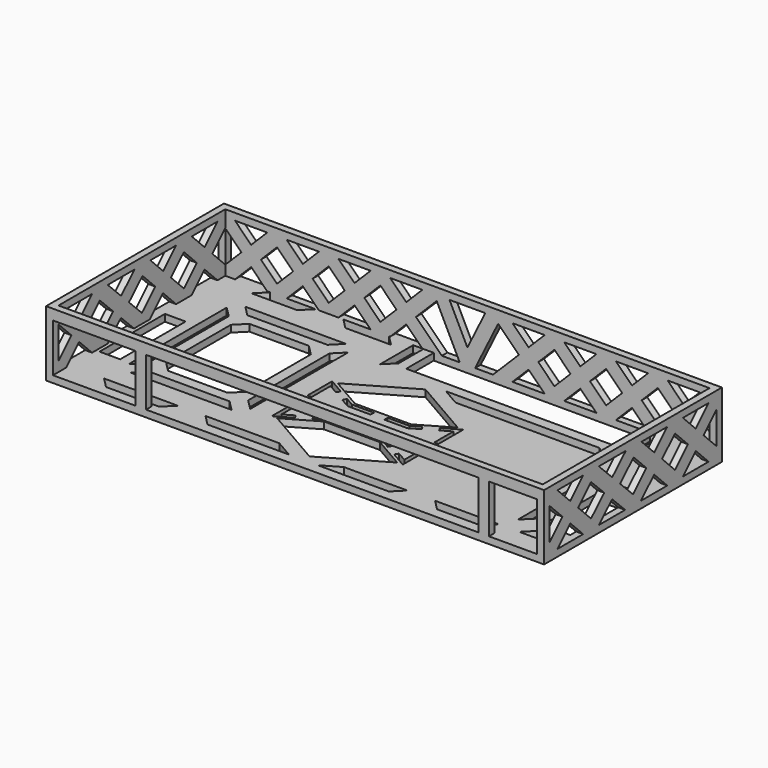
from build123d import *

# Parameters (mm, degrees)
F0_W      = 144.5
F0_H      = 64.5
F1_DEPTH  = 2
F2_W      = 144.5
F2_H      = 64.5
F2_W_2    = 140.5
F2_H_2    = 60.5
F3_DEPTH  = 17
F4_W      = 24
F4_H      = 15
F4_W_2    = 14
F4_W_3    = 98.5
F5_DEPTH  = 25
F6_W      = 60
F6_H      = 10
F6_W_2    = 8
F6_H_2    = 20
F7_DEPTH  = 25
F9_DEPTH  = 144.501
F11_DEPTH = 25
F13_DEPTH = 1
F15_SCALE = 2
F17_DEPTH = 3
F19_DEPTH = 2
F18_W     = 1.1999995362
F18_H     = 4.0000001362
F18_W_2   = 1.199999375
F18_H_2   = 4.0000000878
F18_W_3   = 4.0000000008
F18_H_3   = 1.1999990848
F22_DEPTH = 25
F23_W     = 6
F23_H     = 23.7315909414
F24_DEPTH = 25
F26_DEPTH = 2
F27_W     = 2
F27_H     = 15
F28_DEPTH = 1
F29_W     = 2
F29_H     = 15
F30_DEPTH = 1
F31_W     = 24
F31_H     = 2
F31_W_2   = 96.5
F31_W_3   = 14
F32_DEPTH = 1
F34_DEPTH = 2


with BuildPart() as f1:
    # F0 (on Top) → F1 (new body)
    with BuildSketch(Plane.XY):
        Rectangle(F0_W, F0_H)
    extrude(amount=F1_DEPTH)

    # F2 (on face) → F3 (join)
    with BuildSketch(Plane.XY.offset(2)):
        Rectangle(F2_W, F2_H)
        Rectangle(F2_W_2, F2_H_2, mode=Mode.SUBTRACT)
    extrude(amount=F3_DEPTH)

    # F4 (on face) → F5 (cut)
    with BuildSketch(Plane.XZ.offset(32.25)):
        with Locations((-58.25, 9.5)):
            Rectangle(F4_W, F4_H)
        with Locations((63.25, 9.5)):
            Rectangle(F4_W_2, F4_H)
        with Locations((5, 9.5)):
            Rectangle(F4_W_3, F4_H)
    extrude(amount=-F5_DEPTH, mode=Mode.SUBTRACT)

    # F6 (on face) → F7 (cut)
    with BuildSketch(Plane(origin=(0, 0, 0), x_dir=(1, 0, 0), z_dir=(0, 0, -1))):
        with Locations((20.25, -25.25)):
            Rectangle(F6_W, F6_H)
        with Locations((66.25, 10.25)):
            Rectangle(F6_W_2, F6_H_2)
    extrude(amount=-F7_DEPTH, mode=Mode.SUBTRACT)

    # F8 (on face) → F9 (cut, through all)
    with BuildSketch(Plane(origin=(-72.25, 0, 0), x_dir=(0, -1, 0), z_dir=(-1, 0, 0))):
        Polygon((-22.75, 6.6715728753), (-27.4215728753, 2), (-18.0784271247, 2), align=None)
        Polygon((-25.5784271247, 9.5), (-30.25, 14.1715728753), (-30.25, 4.8284271247), align=None)
        Polygon((25.5784271247, 9.5), (30.25, 4.8284271247), (30.25, 14.1715728753), align=None)
        Polygon((27.4215728753, 2), (22.75, 6.6715728753), (18.0784271247, 2), align=None)
        Polygon((-18.0784271247, 17), (-27.4215728753, 17), (-22.75, 12.3284271247), align=None)
        Polygon((-3.0784271247, 17), (-12.3979052532, 17), (-7.6996559488, 12.3787711759), align=None)
        Polygon((12.3979052532, 17), (2.625953948, 17), (7.5516529799, 12.2331944853), align=None)
        Polygon((27.4215728753, 17), (18.0784271247, 17), (22.75, 12.3284271247), align=None)
        Polygon((4.6990807713, 9.4273857555), (-0.2270061897, 14.1945666855), (-4.8478533933, 9.573719482), (0, 4.8053390952), align=None)
        Polygon((19.9215728753, 9.5), (15.2383605801, 14.1832122951), (10.4269354888, 9.450663025), (15.2270061897, 4.8054333145), align=None)
        Polygon((7.5743632802, 6.6448542952), (2.8520947468, 2), (12.374046052, 2), align=None)
        Polygon((-10.5281796646, 9.5502474602), (-15.2383605801, 14.1832122951), (-19.9215728753, 9.5), (-15.25, 4.8284271247), align=None)
        Polygon((-2.8520947468, 2), (-7.6763771091, 6.7451957662), (-12.4215728753, 2), align=None)
    extrude(amount=-F9_DEPTH, mode=Mode.SUBTRACT)

    # F10 (on face) → F11 (cut)
    with BuildSketch(Plane(origin=(0, 32.25, 0), x_dir=(-1, 0, 0), z_dir=(0, 1, 0))):
        Polygon((-62.75, 6.6715728753), (-67.4215728753, 2), (-58.0784271247, 2), align=None)
        Polygon((-65.5784271247, 9.5), (-70.25, 14.1715728753), (-70.25, 4.8284271247), align=None)
        Polygon((62.75, 12.3284271247), (67.4215728753, 17), (58.0784271247, 17), align=None)
        Polygon((65.5784271247, 9.5), (70.25, 4.8284271247), (70.25, 14.1715728753), align=None)
        Polygon((-17.75, 6.6715728753), (-22.4215728753, 2), (-13.0784271247, 2), align=None)
        Polygon((-35.5784271247, 9.5), (-40.25, 14.1715728753), (-44.9215728753, 9.5), (-40.25, 4.8284271247), align=None)
        Polygon((-47.75, 6.6715728753), (-52.4215728753, 2), (-43.0784271247, 2), align=None)
        Polygon((-29.9215728753, 9.5), (-25.25, 4.8284271247), (-20.5784271247, 9.5), (-25.25, 14.1715728753), align=None)
        Polygon((-28.0784271247, 2), (-32.75, 6.6715728753), (-37.4215728753, 2), align=None)
        Polygon((-28.0784271247, 17), (-37.4215728753, 17), (-32.75, 12.3284271247), align=None)
        Polygon((-59.9215728753, 9.5), (-55.25, 4.8284271247), (-50.5784271247, 9.5), (-55.25, 14.1715728753), align=None)
        Polygon((-58.0784271247, 17), (-67.4215728753, 17), (-62.75, 12.3284271247), align=None)
        Polygon((-13.0784271247, 17), (-22.4215728753, 17), (-17.75, 12.3284271247), align=None)
        Polygon((-43.0784271247, 17), (-52.4215728753, 17), (-47.75, 12.3284271247), align=None)
        Polygon((20.5784271247, 9.5), (25.25, 4.8284271247), (29.9215728753, 9.5), (25.25, 14.1715728753), align=None)
        Polygon((32.75, 12.3284271247), (37.4215728753, 17), (28.0784271247, 17), align=None)
        Polygon((50.5784271247, 9.5), (55.25, 4.8284271247), (59.9215728753, 9.5), (55.25, 14.1715728753), align=None)
        Polygon((13.0784271247, 2), (22.4215728753, 2), (17.75, 6.6715728753), align=None)
        Polygon((44.9215728753, 9.5), (40.25, 14.1715728753), (35.5784271247, 9.5), (40.25, 4.8284271247), align=None)
        Polygon((43.0784271247, 2), (52.4215728753, 2), (47.75, 6.6715728753), align=None)
        Polygon((17.75, 12.3284271247), (22.4215728753, 17), (13.0784271247, 17), align=None)
        Polygon((47.75, 12.3284271247), (52.4215728753, 17), (43.0784271247, 17), align=None)
        Polygon((28.0784271247, 2), (37.4215728753, 2), (32.75, 6.6715728753), align=None)
        Polygon((58.0784271247, 2), (67.4215728753, 2), (62.75, 6.6715728753), align=None)
        Polygon((-8.9143836839, 15.5071891914), (-14.9215728753, 9.5), (-7.4215728753, 2), (-2.2314110889, 2), align=None)
        Polygon((7.4215728753, 2), (14.9215728753, 9.5), (8.9143836839, 15.5071891914), (2.2314110889, 2), align=None)
        Polygon((0, 6.5099828428), (5.1901617863, 17), (-5.1901617863, 17), align=None)
    extrude(amount=-F11_DEPTH, mode=Mode.SUBTRACT)


with BuildPart() as f13:
    # F12 (on face) → F13 (new body)
    with BuildSketch(Plane(origin=(0, 0, 0), x_dir=(1, 0, 0), z_dir=(0, 0, -1))):
        Polygon((9.5098589116, 0.5094823004), (9.5098576654, 11.4905178358), (4.179731129, 8.4131683653), (-4.1797301546, 8.4131675528), (-9.5098549353, 11.4905170499), (-9.509855739, 0.509483038), (-4.1797296744, 3.586832236), (4.1797287664, 3.5868322413), align=None)
        Polygon((-4.3404990436, 4.186831777), (-8.9098561218, 1.5487126838), (-8.9098554702, 10.4512873162), (-4.3404995436, 7.813167996), (4.340500525, 7.8131688398), (8.9098582422, 10.451288302), (8.9098592526, 1.548711698), (4.3404980622, 4.1868317825), align=None, mode=Mode.SUBTRACT)
    extrude(amount=F13_DEPTH)


with BuildPart() as f13b:
    # F12 (on face) → F13, piece 2 (new body)
    with BuildSketch(Plane(origin=(0, 0, 0), x_dir=(1, 0, 0), z_dir=(0, 0, -1))):
        Polygon((-4.0725504592, 8.813167641), (4.0725514288, 8.8131684327), (8.7098577157, 11.4905180133), (1.5605e-06, 16.5191537659), (-8.7098537988, 11.490516425), align=None)
    extrude(amount=F13_DEPTH)


with BuildPart() as f13c:
    # F12 (on face) → F13, piece 3 (new body)
    with BuildSketch(Plane(origin=(0, 0, 0), x_dir=(1, 0, 0), z_dir=(0, 0, -1))):
        Polygon((-8.7098571299, 0.509482449), (-8.736e-07, -4.5191554006), (8.7098591635, 0.5094821875), (4.0725492171, 3.1868324774), (-4.0725500763, 3.1868324722), align=None)
    extrude(amount=F13_DEPTH)


with BuildPart() as f13_1:
    # F15: moved
    add(f13.part.scale(F15_SCALE).moved(Location((-1.4757e-06, 6, 1))))


with BuildPart() as f13b_1:
    # F15: moved
    add(f13b.part.scale(F15_SCALE).moved(Location((-1.4757e-06, 6, 1))))


with BuildPart() as f13c_1:
    # F15: moved
    add(f13c.part.scale(F15_SCALE).moved(Location((-1.4757e-06, 6, 1))))


with BuildPart() as f17_tool:
    # F16 (on face) → F17 (new body)
    with BuildSketch(Plane(origin=(0, 0, -1), x_dir=(1, 0, 0), z_dir=(0, 0, -1))):
        Polygon((8.3594607822, 10.8263367307), (-8.3594617849, 10.8263351056), (-19.0197113463, 16.9810340997), (-19.0197129537, -4.9810339241), (-8.3594608245, 1.173664472), (8.359456057, 1.1736644826), (19.0197163476, -4.9810353992), (19.019713855, 16.9810356716), align=None)
        Polygon((8.6809946486, 2.373663565), (-8.6809995628, 2.3736635541), (-17.8197137193, -2.9025746324), (-17.8197124161, 14.9025746324), (-8.6810005629, 9.6263359921), (8.6809995743, 9.6263376797), (17.8197150087, 14.9025766039), (17.8197170295, -2.9025766039), align=None, mode=Mode.SUBTRACT)
        Polygon((1.6454e-06, 27.0383075318), (-17.4197090734, 16.9810328501), (-8.145102394, 11.626335282), (8.1451013819, 11.6263368654), (17.4197139558, 16.9810360265), align=None)
        Polygon((8.1450969586, 0.3736649547), (-8.1451016282, 0.3736649444), (-17.4197157354, -4.9810351019), (-3.2229e-06, -15.0383108012), (17.4197168513, -4.9810356249), align=None)
    extrude(amount=-F17_DEPTH)


with BuildPart() as f1_1:
    add(f1.part)

    # F17: cut by f17_tool
    add(f17_tool.part, mode=Mode.SUBTRACT)


with BuildPart() as f13_2:
    add(f13_1.part)

    # F17: cut by f17_tool
    add(f17_tool.part, mode=Mode.SUBTRACT)


with BuildPart() as f13b_2:
    add(f13b_1.part)

    # F17: cut by f17_tool
    add(f17_tool.part, mode=Mode.SUBTRACT)


with BuildPart() as f13c_2:
    add(f13c_1.part)

    # F17: cut by f17_tool
    add(f17_tool.part, mode=Mode.SUBTRACT)


with BuildPart() as f19:
    # F18 (on face) → F19 (new body)
    with BuildSketch(Plane(origin=(0, 0, 0), x_dir=(1, 0, 0), z_dir=(0, 0, -1))):
        Polygon((1.9999993891, 10.8263361125), (-2.0000006109, 10.8263357237), (-2.0000004943, 9.6263366415), (1.9999995057, 9.6263370303), align=None)
    extrude(amount=-F19_DEPTH)


with BuildPart() as f19b:
    # F18 (on face) → F19, piece 2 (new body)
    with BuildSketch(Plane(origin=(0, 0, 0), x_dir=(1, 0, 0), z_dir=(0, 0, -1))):
        Polygon((14.9824081723, 13.264457015), (14.3824087072, 14.3036867487), (10.9183069457, 12.3036870022), (11.5183064107, 11.2644572686), align=None)
    extrude(amount=-F19_DEPTH)


with BuildPart() as f19c:
    # F18 (on face) → F19, piece 3 (new body)
    with BuildSketch(Plane(origin=(0, 0, 0), x_dir=(1, 0, 0), z_dir=(0, 0, -1))):
        Polygon((-11.5183057551, 11.2644551855), (-10.9183061379, 12.3036848313), (-14.3824076067, 14.3036850849), (-14.9824072239, 13.264455439), align=None)
    extrude(amount=-F19_DEPTH)


with BuildPart() as f19d:
    # F18 (on face) → F19, piece 4 (new body)
    with BuildSketch(Plane(origin=(0, 0, 0), x_dir=(1, 0, 0), z_dir=(0, 0, -1))):
        with Locations((18.4197155602, 6.0000000681)):
            Rectangle(F18_W, F18_H)
    extrude(amount=-F19_DEPTH)


with BuildPart() as f19e:
    # F18 (on face) → F19, piece 5 (new body)
    with BuildSketch(Plane(origin=(0, 0, 0), x_dir=(1, 0, 0), z_dir=(0, 0, -1))):
        with Locations((-18.4197126088, 6.0000000439)):
            Rectangle(F18_W_2, F18_H_2)
    extrude(amount=-F19_DEPTH)


with BuildPart() as f19f:
    # F18 (on face) → F19, piece 6 (new body)
    with BuildSketch(Plane(origin=(0, 0, 0), x_dir=(1, 0, 0), z_dir=(0, 0, -1))):
        Polygon((-14.9824075218, -1.2644554124), (-14.3824080567, -2.3036851461), (-10.9183062952, -0.3036853996), (-11.5183057603, 0.7355443341), align=None)
    extrude(amount=-F19_DEPTH)


with BuildPart() as f19g:
    # F18 (on face) → F19, piece 7 (new body)
    with BuildSketch(Plane(origin=(0, 0, 0), x_dir=(1, 0, 0), z_dir=(0, 0, -1))):
        with Locations((-2.4567e-06, 1.7736640184)):
            Rectangle(F18_W_3, F18_H_3)
    extrude(amount=-F19_DEPTH)


with BuildPart() as f19h:
    # F18 (on face) → F19, piece 8 (new body)
    with BuildSketch(Plane(origin=(0, 0, 0), x_dir=(1, 0, 0), z_dir=(0, 0, -1))):
        Polygon((10.9183055021, -0.3036869092), (14.3824077176, -2.3036858694), (14.9824069468, -1.2644559995), (11.5183047313, 0.7355429606), align=None)
    extrude(amount=-F19_DEPTH)


with BuildPart() as f1_2:
    add(f1_1.part)

    # F20: union F19, F19b, F19c, F19d, F19e, F19f, F19g, F19h
    add(f19.part)
    add(f19b.part)
    add(f19c.part)
    add(f19d.part)
    add(f19e.part)
    add(f19f.part)
    add(f19g.part)
    add(f19h.part)

    # F21 (on face) → F22 (cut)
    with BuildSketch(Plane(origin=(0, 0, 0), x_dir=(1, 0, 0), z_dir=(0, 0, -1))):
        Polygon((63.2426406871, 23.25), (70, 23.25), (70, 26.25), (60.2426406871, 26.25), align=None)
        Polygon((56.25, -1.7573593129), (59.25, 1.2426406871), (59.25, 18.7573593129), (56.25, 21.7573593129), align=None)
        Polygon((70, -5.75), (70, -2.75), (63.2426406871, -2.75), (60.2426406871, -5.75), align=None)
        Polygon((53.25, -21.2426406871), (53.25, -30), (56.25, -30), (56.25, -18.2426406871), align=None)
        Polygon((-11.7573593129, -14.25), (-8.7573593129, -17.25), (-4.1692451619, -17.25), (-9.3653975893, -14.25), align=None)
        Polygon((-15.75, -30.25), (-12.75, -30.25), (-12.75, -21.2426406871), (-15.75, -18.2426406871), align=None)
        Polygon((51.7573593129, -14.25), (9.3653947238, -14.25), (4.1692397706, -17.25), (48.7573593129, -17.25), align=None)
        Polygon((-69.25, -7.1065909414), (-69.25, -27.25), (-66.25, -30.25), (-66.25, -4), align=None)
        Polygon((-69.25, 7), (-66.25, 4), (-66.25, 29.25), (-69.25, 26.25), align=None)
        Polygon((-60.25, -27.25), (-57.25, -30.25), (-44, -30.25), (-47, -27.25), align=None)
        Polygon((-22.75, -30.25), (-19.75, -27.25), (-33, -27.25), (-36, -30.25), align=None)
        Polygon((-41.8076935225, 29.25), (-57.25, 29.25), (-60.25, 26.25), (-38.8076935225, 26.25), align=None)
        Polygon((-30.8076935225, 26.25), (-9.365387045, 26.25), (-4.169234627, 29.25), (-27.8076935225, 29.25), align=None)
        Polygon((4.1692388011, 29.25), (9.3653933351, 26.25), (27.8040170111, 26.25), (24.8040170111, 29.25), align=None)
        Polygon((35.8040170111, 26.25), (54.2426406871, 26.25), (51.2426406871, 29.25), (38.8040170111, 29.25), align=None)
        Polygon((-28.0197113463, 20.25), (-57.25, 20.25), (-54.25, 17.25), (-31.0197113463, 17.25), align=None)
        Polygon((-57.25, 14.25), (-60.25, 17.25), (-60.25, -18.25), (-57.25, -15.25), align=None)
        Polygon((-25.0197113463, -18.25), (-25.0197113463, 17.25), (-28.0197113463, 14.25), (-28.0197113463, -15.25), align=None)
        Polygon((-54.25, -18.25), (-57.25, -21.25), (-28.0197113463, -21.25), (-31.0197113463, -18.25), align=None)
        Polygon((-48.25, -12.25), (-51.25, -15.25), (-34.0197113463, -15.25), (-37.0197113463, -12.25), align=None)
        Polygon((-51.25, 8.25), (-54.25, 11.25), (-54.25, -12.25), (-51.25, -9.25), align=None)
        Polygon((-34.0197113463, 14.25), (-51.25, 14.25), (-48.25, 11.25), (-37.0197113463, 11.25), align=None)
        Polygon((-31.0197113463, -12.25), (-31.0197113463, 11.25), (-34.0197113463, 8.25), (-34.0197113463, -9.25), align=None)
        Polygon((-42.6348556731, -6.6348556731), (-45.25, -9.25), (-40.0197113463, -9.25), align=None)
        Polygon((-45.6348556731, 2.6348556731), (-48.25, 5.25), (-48.25, 0.0197113463), align=None)
        Polygon((-40.0197113463, 8.25), (-45.25, 8.25), (-42.6348556731, 5.6348556731), align=None)
        Polygon((-37.0197113463, 0.0197113463), (-37.0197113463, 5.25), (-39.6348556731, 2.6348556731), align=None)
        Polygon((-48.25, -6.5), (-45.5098556731, -3.7598556731), (-48.25, -1.0197113463), align=None)
        Polygon((-37.0197113463, -1.0197113463), (-39.3848556731, -3.3848556731), (-37.0197113463, -5.75), align=None)
    extrude(amount=-F22_DEPTH, mode=Mode.SUBTRACT)

    # F23 (on face) → F24 (cut)
    with BuildSketch(Plane(origin=(0, 0, 0), x_dir=(1, 0, 0), z_dir=(0, 0, -1))):
        with Locations((-66.25, 4.7592045293)):
            Rectangle(F23_W, F23_H)
    extrude(amount=-F24_DEPTH, mode=Mode.SUBTRACT)

    # F25 (on face) → F26 (join)
    with BuildSketch(Plane(origin=(0, 0, 0), x_dir=(1, 0, 0), z_dir=(0, 0, -1))):
        Polygon((-69.25, -7.1065909414), (-69.25, -27.25), (-66.25, -30.25), (-66.25, -7.1065909414), align=None)
        Polygon((-69.25, 16.625), (-66.25, 16.625), (-66.25, 29.25), (-69.25, 26.25), align=None)
        Polygon((-37.0197113463, -1.0197113463), (-39.3848556731, -3.3848556731), (-37.0197113463, -5.75), align=None)
        Polygon((-45.25, -9.25), (-40.0197113463, -9.25), (-42.6348556731, -6.6348556731), align=None)
        Polygon((-48.25, -1.0197113463), (-48.25, -6.5), (-45.5098556731, -3.7598556731), align=None)
        Polygon((-48.25, 5.25), (-48.25, 0.0197113463), (-45.6348556731, 2.6348556731), align=None)
        Polygon((-45.25, 8.25), (-42.6348556731, 5.6348556731), (-40.0197113463, 8.25), align=None)
        Polygon((-37.0197113463, 5.25), (-39.6348556731, 2.6348556731), (-37.0197113463, 0.0197113463), align=None)
        Polygon((-8.7573593129, -17.25), (-4.1692451619, -17.25), (-9.3653975893, -14.25), (-11.7573593129, -14.25), align=None)
    extrude(amount=-F26_DEPTH)

    # F27 (on face) → F28 (join)
    with BuildSketch(Plane(origin=(54.25, 0, 0), x_dir=(0, -1, 0), z_dir=(-1, 0, 0))):
        with Locations((31.25, 9.5)):
            Rectangle(F27_W, F27_H)
    extrude(amount=F28_DEPTH)

    # F29 (on face) → F30 (join)
    with BuildSketch(Plane.YZ.offset(-44.25)):
        with Locations((-31.25, 9.5)):
            Rectangle(F29_W, F29_H)
    extrude(amount=F30_DEPTH)

    # F31 (on face) → F32 (join)
    with BuildSketch(Plane(origin=(0, 0, 17), x_dir=(1, 0, 0), z_dir=(0, 0, -1))):
        with Locations((-58.25, 31.25)):
            Rectangle(F31_W, F31_H)
        with Locations((5, 31.25)):
            Rectangle(F31_W_2, F31_H)
        with Locations((63.25, 31.25)):
            Rectangle(F31_W_3, F31_H)
    extrude(amount=F32_DEPTH)

    # F33 (on face) → F34 (cut)
    with BuildSketch(Plane(origin=(0, 0, 0), x_dir=(1, 0, 0), z_dir=(0, 0, -1))):
        Polygon((-34.0197113463, 14.25), (-51.25, 14.25), (-54.25, 11.25), (-54.25, -12.25), (-51.25, -15.25), (-34.0197113463, -15.25), (-31.0197113463, -12.25), (-31.0197113463, 11.25), align=None)
    extrude(amount=-F34_DEPTH, mode=Mode.SUBTRACT)


solid = f1_2.part
